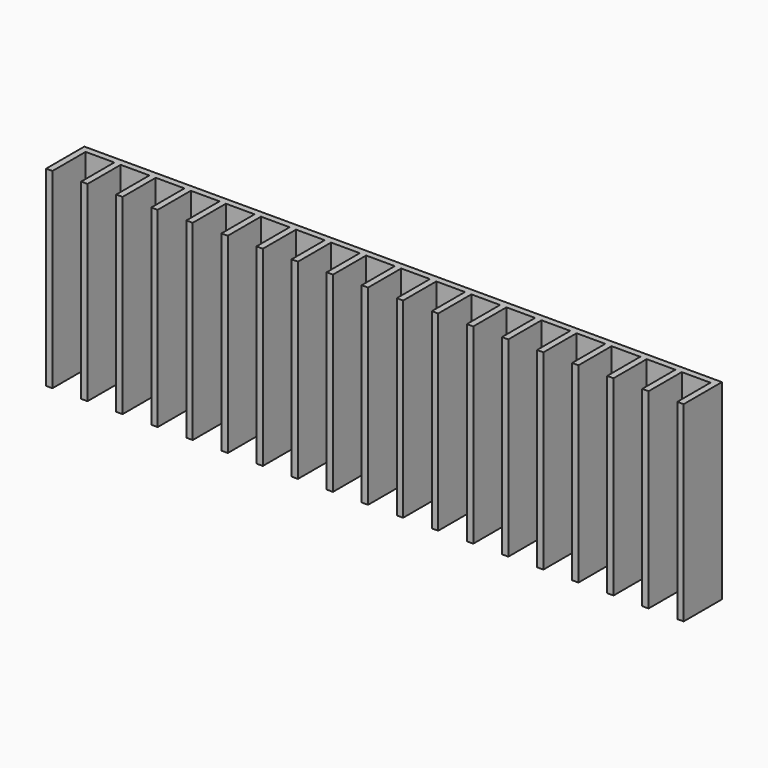
from build123d import *

# Parameters (mm, degrees)
BOX035_W     = 9
BOX035_H     = 13
BOX035_DEPTH = 60
BOX023_W     = 9
BOX023_H     = 13
BOX023_DEPTH = 60
BOX024_W     = 9
BOX024_H     = 13
BOX024_DEPTH = 60
BOX025_W     = 9
BOX025_H     = 13
BOX025_DEPTH = 60
BOX026_W     = 9
BOX026_H     = 13
BOX026_DEPTH = 60
BOX027_W     = 9
BOX027_H     = 13
BOX027_DEPTH = 60
BOX028_W     = 9
BOX028_H     = 13
BOX028_DEPTH = 60
BOX029_W     = 9
BOX029_H     = 13
BOX029_DEPTH = 60
BOX030_W     = 9
BOX030_H     = 13
BOX030_DEPTH = 60
BOX031_W     = 9
BOX031_H     = 13
BOX031_DEPTH = 60
BOX032_W     = 9
BOX032_H     = 13
BOX032_DEPTH = 60
BOX033_W     = 9
BOX033_H     = 13
BOX033_DEPTH = 60
BOX034_W     = 9
BOX034_H     = 13
BOX034_DEPTH = 60
BOX036_W     = 9
BOX036_H     = 13
BOX036_DEPTH = 60
BOX037_W     = 9
BOX037_H     = 13
BOX037_DEPTH = 60
BOX038_W     = 9
BOX038_H     = 13
BOX038_DEPTH = 60
BOX039_W     = 9
BOX039_H     = 13
BOX039_DEPTH = 60
BOX022_W     = 9
BOX022_H     = 13
BOX022_DEPTH = 60
BOX021_W     = 200
BOX021_H     = 15
BOX021_DEPTH = 60


with BuildPart() as cube035:
    # Box035 → Box035 (new body)
    with BuildSketch(Plane(origin=(145, -15, 0), x_dir=(1, 0, 0), z_dir=(0, 0, 1))):
        with Locations((4.5, 6.5)):
            Rectangle(BOX035_W, BOX035_H)
    extrude(amount=BOX035_DEPTH)


with BuildPart() as cube023:
    # Box023 → Box023 (new body)
    with BuildSketch(Plane(origin=(13, -15, 0), x_dir=(1, 0, 0), z_dir=(0, 0, 1))):
        with Locations((4.5, 6.5)):
            Rectangle(BOX023_W, BOX023_H)
    extrude(amount=BOX023_DEPTH)


with BuildPart() as cube024:
    # Box024 → Box024 (new body)
    with BuildSketch(Plane(origin=(24, -15, 0), x_dir=(1, 0, 0), z_dir=(0, 0, 1))):
        with Locations((4.5, 6.5)):
            Rectangle(BOX024_W, BOX024_H)
    extrude(amount=BOX024_DEPTH)


with BuildPart() as cube025:
    # Box025 → Box025 (new body)
    with BuildSketch(Plane(origin=(35, -15, 0), x_dir=(1, 0, 0), z_dir=(0, 0, 1))):
        with Locations((4.5, 6.5)):
            Rectangle(BOX025_W, BOX025_H)
    extrude(amount=BOX025_DEPTH)


with BuildPart() as cube026:
    # Box026 → Box026 (new body)
    with BuildSketch(Plane(origin=(46, -15, 0), x_dir=(1, 0, 0), z_dir=(0, 0, 1))):
        with Locations((4.5, 6.5)):
            Rectangle(BOX026_W, BOX026_H)
    extrude(amount=BOX026_DEPTH)


with BuildPart() as cube027:
    # Box027 → Box027 (new body)
    with BuildSketch(Plane(origin=(57, -15, 0), x_dir=(1, 0, 0), z_dir=(0, 0, 1))):
        with Locations((4.5, 6.5)):
            Rectangle(BOX027_W, BOX027_H)
    extrude(amount=BOX027_DEPTH)


with BuildPart() as cube028:
    # Box028 → Box028 (new body)
    with BuildSketch(Plane(origin=(68, -15, 0), x_dir=(1, 0, 0), z_dir=(0, 0, 1))):
        with Locations((4.5, 6.5)):
            Rectangle(BOX028_W, BOX028_H)
    extrude(amount=BOX028_DEPTH)


with BuildPart() as cube029:
    # Box029 → Box029 (new body)
    with BuildSketch(Plane(origin=(79, -15, 0), x_dir=(1, 0, 0), z_dir=(0, 0, 1))):
        with Locations((4.5, 6.5)):
            Rectangle(BOX029_W, BOX029_H)
    extrude(amount=BOX029_DEPTH)


with BuildPart() as cube030:
    # Box030 → Box030 (new body)
    with BuildSketch(Plane(origin=(90, -15, 0), x_dir=(1, 0, 0), z_dir=(0, 0, 1))):
        with Locations((4.5, 6.5)):
            Rectangle(BOX030_W, BOX030_H)
    extrude(amount=BOX030_DEPTH)


with BuildPart() as cube031:
    # Box031 → Box031 (new body)
    with BuildSketch(Plane(origin=(101, -15, 0), x_dir=(1, 0, 0), z_dir=(0, 0, 1))):
        with Locations((4.5, 6.5)):
            Rectangle(BOX031_W, BOX031_H)
    extrude(amount=BOX031_DEPTH)


with BuildPart() as cube032:
    # Box032 → Box032 (new body)
    with BuildSketch(Plane(origin=(112, -15, 0), x_dir=(1, 0, 0), z_dir=(0, 0, 1))):
        with Locations((4.5, 6.5)):
            Rectangle(BOX032_W, BOX032_H)
    extrude(amount=BOX032_DEPTH)


with BuildPart() as cube033:
    # Box033 → Box033 (new body)
    with BuildSketch(Plane(origin=(123, -15, 0), x_dir=(1, 0, 0), z_dir=(0, 0, 1))):
        with Locations((4.5, 6.5)):
            Rectangle(BOX033_W, BOX033_H)
    extrude(amount=BOX033_DEPTH)


with BuildPart() as cube034:
    # Box034 → Box034 (new body)
    with BuildSketch(Plane(origin=(134, -15, 0), x_dir=(1, 0, 0), z_dir=(0, 0, 1))):
        with Locations((4.5, 6.5)):
            Rectangle(BOX034_W, BOX034_H)
    extrude(amount=BOX034_DEPTH)


with BuildPart() as cube036:
    # Box036 → Box036 (new body)
    with BuildSketch(Plane(origin=(156, -15, 0), x_dir=(1, 0, 0), z_dir=(0, 0, 1))):
        with Locations((4.5, 6.5)):
            Rectangle(BOX036_W, BOX036_H)
    extrude(amount=BOX036_DEPTH)


with BuildPart() as cube037:
    # Box037 → Box037 (new body)
    with BuildSketch(Plane(origin=(167, -15, 0), x_dir=(1, 0, 0), z_dir=(0, 0, 1))):
        with Locations((4.5, 6.5)):
            Rectangle(BOX037_W, BOX037_H)
    extrude(amount=BOX037_DEPTH)


with BuildPart() as cube038:
    # Box038 → Box038 (new body)
    with BuildSketch(Plane(origin=(178, -15, 0), x_dir=(1, 0, 0), z_dir=(0, 0, 1))):
        with Locations((4.5, 6.5)):
            Rectangle(BOX038_W, BOX038_H)
    extrude(amount=BOX038_DEPTH)


with BuildPart() as cube039:
    # Box039 → Box039 (new body)
    with BuildSketch(Plane(origin=(189, -15, 0), x_dir=(1, 0, 0), z_dir=(0, 0, 1))):
        with Locations((4.5, 6.5)):
            Rectangle(BOX039_W, BOX039_H)
    extrude(amount=BOX039_DEPTH)


with BuildPart() as compound001:
    # Box022 → Box022 (new body)
    with BuildSketch(Plane(origin=(2, -15, 0), x_dir=(1, 0, 0), z_dir=(0, 0, 1))):
        with Locations((4.5, 6.5)):
            Rectangle(BOX022_W, BOX022_H)
    extrude(amount=BOX022_DEPTH)

    # Compound001: union Cube035, Cube023, Cube024, Cube025, Cube026, Cube027, Cube028, Cube029, Cube030, Cube031, Cube032, Cube033, Cube034, Cube036, Cube037, Cube038, Cube039
    add(cube035.part)
    add(cube023.part)
    add(cube024.part)
    add(cube025.part)
    add(cube026.part)
    add(cube027.part)
    add(cube028.part)
    add(cube029.part)
    add(cube030.part)
    add(cube031.part)
    add(cube032.part)
    add(cube033.part)
    add(cube034.part)
    add(cube036.part)
    add(cube037.part)
    add(cube038.part)
    add(cube039.part)


with BuildPart() as cut002:
    # Box021 → Box021 (new body)
    with BuildSketch(Plane(origin=(0, -15, 0), x_dir=(1, 0, 0), z_dir=(0, 0, 1))):
        with Locations((100, 7.5)):
            Rectangle(BOX021_W, BOX021_H)
    extrude(amount=BOX021_DEPTH)

    # Cut002: cut Compound001
    add(compound001.part, mode=Mode.SUBTRACT)


solid = cut002.part
